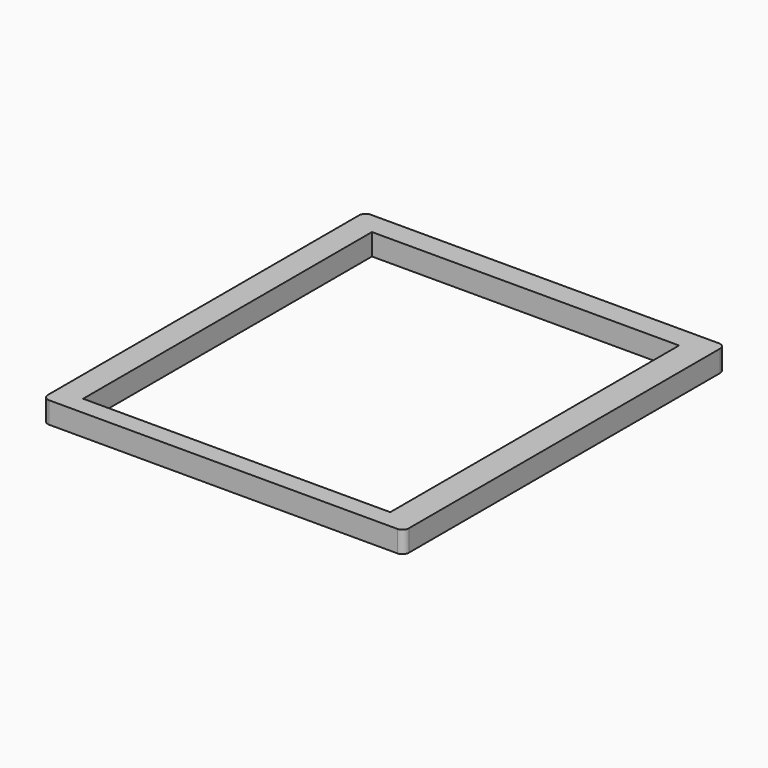
from build123d import *

# Parameters (mm, degrees)
SKETCH_W  = 285
SKETCH_H  = 335
PAD_DEPTH = 20


with BuildPart() as part:
    # Sketch → Pad (new body)
    with BuildSketch(Plane.XY):
        with BuildLine():
            Line((-174.643365, 156.97724), (148.356635, 156.97724))
            ThreePointArc((154.356635, 150.97724), (152.599276, 155.21988), (148.356635, 156.97724))
            Line((154.356635, 150.97724), (154.356635, -210.02276))
            ThreePointArc((148.356635, -216.02276), (152.599276, -214.265401), (154.356635, -210.02276))
            Line((148.356635, -216.02276), (-174.643365, -216.02276))
            ThreePointArc((-180.643365, -210.02276), (-178.886006, -214.265401), (-174.643365, -216.02276))
            Line((-180.643365, -210.02276), (-180.643365, 150.97724))
            ThreePointArc((-174.643365, 156.97724), (-178.886006, 155.21988), (-180.643365, 150.97724))
        make_face()
        with Locations((-14.448829, -31.250618)):
            Rectangle(SKETCH_W, SKETCH_H, mode=Mode.SUBTRACT)
    extrude(amount=PAD_DEPTH)


solid = part.part
